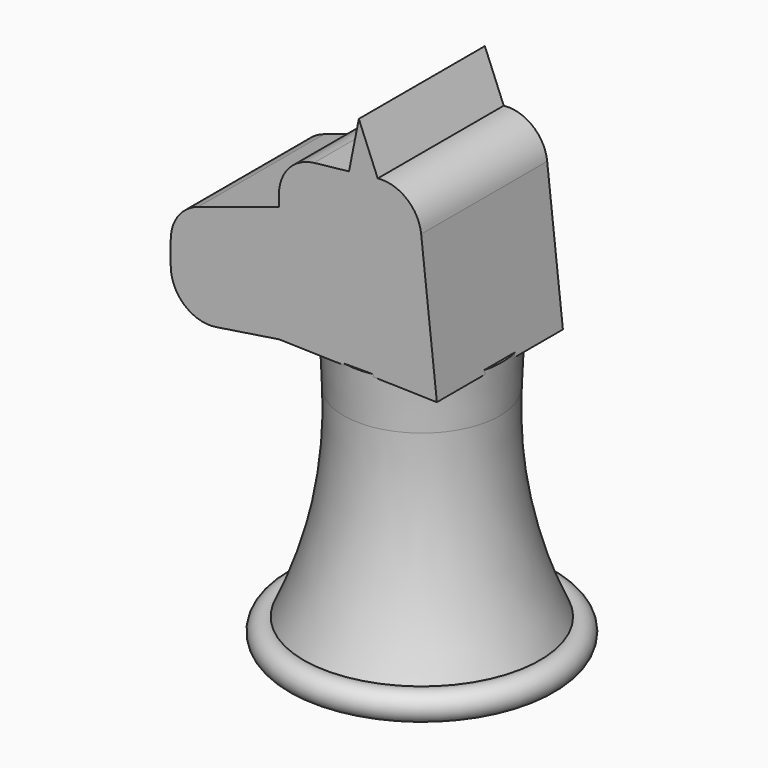
from build123d import *

# Parameters (mm, degrees)
F3_DEPTH = 12.7
F4_DEPTH = 12.7


with BuildPart() as f1:
    # F0 (on Front) → F1 (revolve)
    with BuildSketch(Plane.XZ):
        with BuildLine():
            Line((-19.05, -50.974112), (0, -50.974112))
            Line((0, -50.974112), (0, -6.467288))
            Line((0, -6.467288), (-12.921196, -6.467288))
            Line((-12.921196, -6.467288), (-12.582219, -14.195322))
            ThreePointArc((-12.582219, -14.195322), (-13.853409, -30.877259), (-19.05, -46.780039))
            ThreePointArc((-19.05, -46.780039), (-22.088268, -48.877075), (-19.05, -50.974112))
        make_face()
    revolve(axis=Axis((0, 0, -22.399112), (0, 0, 1)))

    # F2 (on Front) → F3 (join)
    with BuildSketch(Plane.XZ):
        with BuildLine():
            Line((-12.884437, -6.452419), (12.582218, -7.097661))
            Line((12.582218, -7.097661), (10.049637, 15.948844))
            ThreePointArc((10.049637, 15.948844), (7.710426, 20.208945), (3.044008, 21.56722))
            Line((3.044008, 21.56722), (-1.583988, 21.05865))
            Line((-1.583988, 21.05865), (-7.228063, 20.438422))
            ThreePointArc((-7.228063, 20.438422), (-11.263444, 18.364223), (-12.884437, 14.126419))
            Line((-12.884437, 14.126419), (-12.884437, 12.306017))
            Line((-12.884437, 12.306017), (-12.884437, -6.452419))
        make_face()
        with BuildLine():
            Line((-23.013249, -8.006668), (-12.884437, -6.452419))
            Line((-12.884437, -6.452419), (-12.884437, 12.306017))
            Line((-12.884437, 12.306017), (-25.925016, 8.101342))
            ThreePointArc((-25.925016, 8.101342), (-29.109421, 5.795949), (-30.326372, 2.057726))
            Line((-30.326372, 2.057726), (-30.326372, -1.730133))
            ThreePointArc((-30.326372, -1.730133), (-28.11199, -6.54876), (-23.013249, -8.006668))
        make_face()
        Polygon((-1.583988, 21.05865), (3.044008, 21.56722), (0, 29.035889), align=None)
    extrude(amount=F3_DEPTH)

    # F2 (on Front) → F4 (join)
    with BuildSketch(Plane.XZ):
        with BuildLine():
            Line((-12.884437, -6.452419), (12.582218, -7.097661))
            Line((12.582218, -7.097661), (10.049637, 15.948844))
            ThreePointArc((10.049637, 15.948844), (7.710426, 20.208945), (3.044008, 21.56722))
            Line((3.044008, 21.56722), (-1.583988, 21.05865))
            Line((-1.583988, 21.05865), (-7.228063, 20.438422))
            ThreePointArc((-7.228063, 20.438422), (-11.263444, 18.364223), (-12.884437, 14.126419))
            Line((-12.884437, 14.126419), (-12.884437, 12.306017))
            Line((-12.884437, 12.306017), (-12.884437, -6.452419))
        make_face()
        with BuildLine():
            Line((-23.013249, -8.006668), (-12.884437, -6.452419))
            Line((-12.884437, -6.452419), (-12.884437, 12.306017))
            Line((-12.884437, 12.306017), (-25.925016, 8.101342))
            ThreePointArc((-25.925016, 8.101342), (-29.109421, 5.795949), (-30.326372, 2.057726))
            Line((-30.326372, 2.057726), (-30.326372, -1.730133))
            ThreePointArc((-30.326372, -1.730133), (-28.11199, -6.54876), (-23.013249, -8.006668))
        make_face()
        Polygon((-1.583988, 21.05865), (3.044008, 21.56722), (0, 29.035889), align=None)
    extrude(amount=-F4_DEPTH)


solid = f1.part
